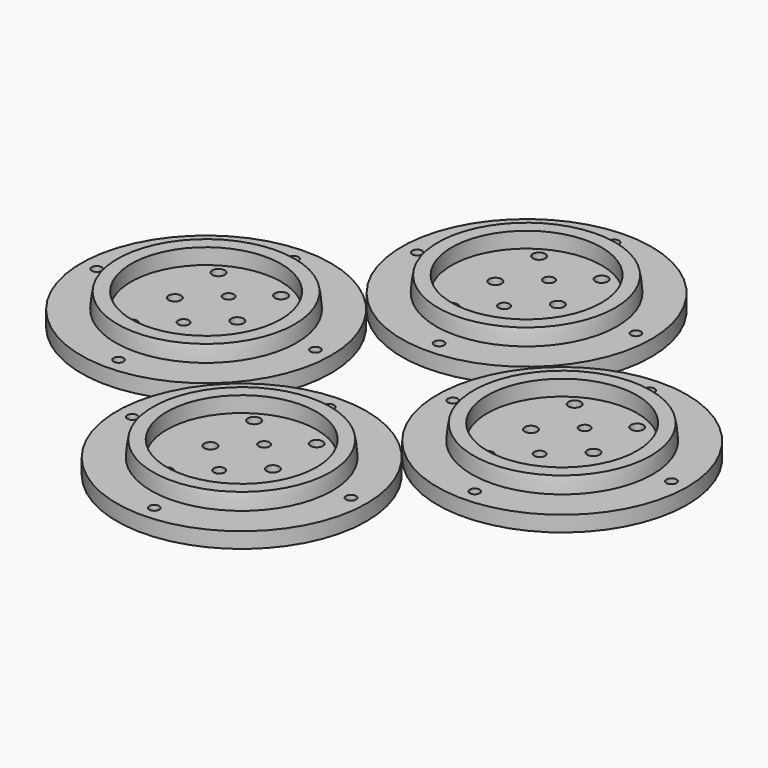
from build123d import *

# Parameters (mm, degrees)
CYLINDER061_R     = 1.6
CYLINDER061_DEPTH = 10
CYLINDER062_R     = 1.6
CYLINDER062_DEPTH = 10
CYLINDER063_R     = 1.6
CYLINDER063_DEPTH = 10
CYLINDER060_R     = 1.6
CYLINDER060_DEPTH = 10
CYLINDER057_R     = 2
CYLINDER057_DEPTH = 10
CYLINDER056_R     = 2
CYLINDER056_DEPTH = 10
CYLINDER059_R     = 1.75
CYLINDER059_DEPTH = 10
CYLINDER058_R     = 1.75
CYLINDER058_DEPTH = 10
CYLINDER050_R     = 2
CYLINDER050_DEPTH = 10
CYLINDER051_R     = 2
CYLINDER051_DEPTH = 10
CYLINDER052_R     = 2
CYLINDER052_DEPTH = 10
CYLINDER053_R     = 2
CYLINDER053_DEPTH = 10
CYLINDER055_R     = 24
CYLINDER055_DEPTH = 7
CYLINDER054_R     = 40
CYLINDER054_DEPTH = 5
CYLINDER075_R     = 1.6
CYLINDER075_DEPTH = 10
CYLINDER076_R     = 1.6
CYLINDER076_DEPTH = 10
CYLINDER077_R     = 1.6
CYLINDER077_DEPTH = 10
CYLINDER074_R     = 1.6
CYLINDER074_DEPTH = 10
CYLINDER071_R     = 2
CYLINDER071_DEPTH = 10
CYLINDER070_R     = 2
CYLINDER070_DEPTH = 10
CYLINDER073_R     = 1.75
CYLINDER073_DEPTH = 10
CYLINDER072_R     = 1.75
CYLINDER072_DEPTH = 10
CYLINDER064_R     = 2
CYLINDER064_DEPTH = 10
CYLINDER065_R     = 2
CYLINDER065_DEPTH = 10
CYLINDER066_R     = 2
CYLINDER066_DEPTH = 10
CYLINDER067_R     = 2
CYLINDER067_DEPTH = 10
CYLINDER069_R     = 24
CYLINDER069_DEPTH = 7
CYLINDER068_R     = 40
CYLINDER068_DEPTH = 5
CYLINDER089_R     = 1.6
CYLINDER089_DEPTH = 10
CYLINDER090_R     = 1.6
CYLINDER090_DEPTH = 10
CYLINDER091_R     = 1.6
CYLINDER091_DEPTH = 10
CYLINDER088_R     = 1.6
CYLINDER088_DEPTH = 10
CYLINDER085_R     = 2
CYLINDER085_DEPTH = 10
CYLINDER084_R     = 2
CYLINDER084_DEPTH = 10
CYLINDER087_R     = 1.75
CYLINDER087_DEPTH = 10
CYLINDER086_R     = 1.75
CYLINDER086_DEPTH = 10
CYLINDER078_R     = 2
CYLINDER078_DEPTH = 10
CYLINDER079_R     = 2
CYLINDER079_DEPTH = 10
CYLINDER080_R     = 2
CYLINDER080_DEPTH = 10
CYLINDER081_R     = 2
CYLINDER081_DEPTH = 10
CYLINDER083_R     = 24
CYLINDER083_DEPTH = 7
CYLINDER082_R     = 40
CYLINDER082_DEPTH = 5
CYLINDER047_R     = 1.6
CYLINDER047_DEPTH = 10
CYLINDER048_R     = 1.6
CYLINDER048_DEPTH = 10
CYLINDER049_R     = 1.6
CYLINDER049_DEPTH = 10
CYLINDER046_R     = 1.6
CYLINDER046_DEPTH = 10
CYLINDER043_R     = 2
CYLINDER043_DEPTH = 10
CYLINDER042_R     = 2
CYLINDER042_DEPTH = 10
CYLINDER045_R     = 1.75
CYLINDER045_DEPTH = 10
CYLINDER044_R     = 1.75
CYLINDER044_DEPTH = 10
CYLINDER036_R     = 2
CYLINDER036_DEPTH = 10
CYLINDER037_R     = 2
CYLINDER037_DEPTH = 10
CYLINDER038_R     = 2
CYLINDER038_DEPTH = 10
CYLINDER039_R     = 2
CYLINDER039_DEPTH = 10
CYLINDER041_R     = 24
CYLINDER041_DEPTH = 7
CYLINDER040_R     = 40
CYLINDER040_DEPTH = 5


with BuildPart() as obj1:
    # Cylinder061 → Cylinder061 (new body)
    with BuildSketch(Plane(origin=(40, 0, 65), x_dir=(1, 0, 0), z_dir=(0, 0, 1))):
        Circle(CYLINDER061_R)
    extrude(amount=CYLINDER061_DEPTH)


with BuildPart() as obj2:
    # Cylinder062 → Cylinder062 (new body)
    with BuildSketch(Plane(origin=(5, 35, 65), x_dir=(1, 0, 0), z_dir=(0, 0, 1))):
        Circle(CYLINDER062_R)
    extrude(amount=CYLINDER062_DEPTH)


with BuildPart() as obj3:
    # Cylinder063 → Cylinder063 (new body)
    with BuildSketch(Plane(origin=(5, -35, 65), x_dir=(1, 0, 0), z_dir=(0, 0, 1))):
        Circle(CYLINDER063_R)
    extrude(amount=CYLINDER063_DEPTH)


with BuildPart() as fusion029:
    # Cylinder060 → Cylinder060 (new body)
    with BuildSketch(Plane(origin=(-30, 0, 65), x_dir=(1, 0, 0), z_dir=(0, 0, 1))):
        Circle(CYLINDER060_R)
    extrude(amount=CYLINDER060_DEPTH)

    # Fusion029: union obj1, obj2, obj3
    add(obj1.part)
    add(obj2.part)
    add(obj3.part)


with BuildPart() as wirecut005:
    # Cylinder057 → Cylinder057 (new body)
    with BuildSketch(Plane(origin=(15, 0, 70), x_dir=(1, 0, 0), z_dir=(0, 0, 1))):
        Circle(CYLINDER057_R)
    extrude(amount=CYLINDER057_DEPTH)


with BuildPart() as wirecuts002:
    # Cylinder056 → Cylinder056 (new body)
    with BuildSketch(Plane(origin=(-5, 0, 70), x_dir=(1, 0, 0), z_dir=(0, 0, 1))):
        Circle(CYLINDER056_R)
    extrude(amount=CYLINDER056_DEPTH)

    # Fusion025: union wireCUt005
    add(wirecut005.part)


with BuildPart() as m3cuts005:
    # Cylinder059 → Cylinder059 (new body)
    with BuildSketch(Plane(origin=(5, 9, 70), x_dir=(1, 0, 0), z_dir=(0, 0, 1))):
        Circle(CYLINDER059_R)
    extrude(amount=CYLINDER059_DEPTH)


with BuildPart() as m3cute002:
    # Cylinder058 → Cylinder058 (new body)
    with BuildSketch(Plane(origin=(5, -9, 70), x_dir=(1, 0, 0), z_dir=(0, 0, 1))):
        Circle(CYLINDER058_R)
    extrude(amount=CYLINDER058_DEPTH)

    # Fusion026: union m3Cuts005
    add(m3cuts005.part)


with BuildPart() as cylinder050:
    # Cylinder050 → Cylinder050 (new body)
    with BuildSketch(Plane(origin=(0, -21, 0), x_dir=(1, 0, 0), z_dir=(0, 0, 1))):
        Circle(CYLINDER050_R)
    extrude(amount=CYLINDER050_DEPTH)


with BuildPart() as m3heatsetcuts006:
    # Cylinder051 → Cylinder051 (new body)
    with BuildSketch(Plane(origin=(20, -21, 0), x_dir=(1, 0, 0), z_dir=(0, 0, 1))):
        Circle(CYLINDER051_R)
    extrude(amount=CYLINDER051_DEPTH)

    # Fusion022: union Cylinder050
    add(cylinder050.part)


with BuildPart() as m3heatsetcuts006_1:
    # Fusion022 placement: moved
    add(m3heatsetcuts006.part.moved(Location((-5, 38.5, 70))))


with BuildPart() as cylinder052:
    # Cylinder052 → Cylinder052 (new body)
    with BuildSketch(Plane(origin=(0, -21, 0), x_dir=(1, 0, 0), z_dir=(0, 0, 1))):
        Circle(CYLINDER052_R)
    extrude(amount=CYLINDER052_DEPTH)


with BuildPart() as basecuts002:
    # Cylinder053 → Cylinder053 (new body)
    with BuildSketch(Plane(origin=(20, -21, 0), x_dir=(1, 0, 0), z_dir=(0, 0, 1))):
        Circle(CYLINDER053_R)
    extrude(amount=CYLINDER053_DEPTH)

    # Fusion023: union Cylinder052
    add(cylinder052.part)


with BuildPart() as basecuts002_1:
    # Fusion023 placement: moved
    add(basecuts002.part.moved(Location((-5, 3.5, 70))))

    # Fusion024: union m3HeatSetCuts006
    add(m3heatsetcuts006_1.part)

    # Fusion027: union wireCuts002, m3Cute002
    add(wirecuts002.part)
    add(m3cute002.part)


with BuildPart() as basecut002:
    # Cylinder055 → Cylinder055 (new body)
    with BuildSketch(Plane(origin=(5, 0, 74), x_dir=(1, 0, 0), z_dir=(0, 0, 1))):
        Circle(CYLINDER055_R)
    extrude(amount=CYLINDER055_DEPTH)


with BuildPart() as cut009:
    # Sphere003 → Sphere003 (revolve)
    with BuildSketch(Plane(origin=(5, 0, 74), x_dir=(1, 0, 0), z_dir=(0, -1, 0))):
        with BuildLine():
            ThreePointArc((29, 0), (28.841135, 3.031325), (28.36628, 6.029439))
            Line((28.36628, 6.029439), (0, 6.029439))
            Line((0, 6.029439), (0, 0))
            Line((0, 0), (29, 0))
        make_face()
    revolve(axis=Axis((5, 0, 74), (0, 0, 1)))

    # Cut009: cut baseCut002
    add(basecut002.part, mode=Mode.SUBTRACT)


with BuildPart() as lightmodule002:
    # Cylinder054 → Cylinder054 (new body)
    with BuildSketch(Plane(origin=(5, 0, 70), x_dir=(1, 0, 0), z_dir=(0, 0, 1))):
        Circle(CYLINDER054_R)
    extrude(amount=CYLINDER054_DEPTH)

    # Fusion028: union Cut009
    add(cut009.part)

    # Cut010: cut baseCUts002
    add(basecuts002_1.part, mode=Mode.SUBTRACT)

    # Cut011: cut Fusion029
    add(fusion029.part, mode=Mode.SUBTRACT)


with BuildPart() as lightmodule002_1:
    # Cut011 placement: moved
    add(lightmodule002.part.moved(Location((-62, -150, 0))))


with BuildPart() as obj4:
    # Cylinder075 → Cylinder075 (new body)
    with BuildSketch(Plane(origin=(40, 0, 65), x_dir=(1, 0, 0), z_dir=(0, 0, 1))):
        Circle(CYLINDER075_R)
    extrude(amount=CYLINDER075_DEPTH)


with BuildPart() as obj5:
    # Cylinder076 → Cylinder076 (new body)
    with BuildSketch(Plane(origin=(5, 35, 65), x_dir=(1, 0, 0), z_dir=(0, 0, 1))):
        Circle(CYLINDER076_R)
    extrude(amount=CYLINDER076_DEPTH)


with BuildPart() as obj6:
    # Cylinder077 → Cylinder077 (new body)
    with BuildSketch(Plane(origin=(5, -35, 65), x_dir=(1, 0, 0), z_dir=(0, 0, 1))):
        Circle(CYLINDER077_R)
    extrude(amount=CYLINDER077_DEPTH)


with BuildPart() as fusion037:
    # Cylinder074 → Cylinder074 (new body)
    with BuildSketch(Plane(origin=(-30, 0, 65), x_dir=(1, 0, 0), z_dir=(0, 0, 1))):
        Circle(CYLINDER074_R)
    extrude(amount=CYLINDER074_DEPTH)

    # Fusion037: union obj4, obj5, obj6
    add(obj4.part)
    add(obj5.part)
    add(obj6.part)


with BuildPart() as wirecut007:
    # Cylinder071 → Cylinder071 (new body)
    with BuildSketch(Plane(origin=(15, 0, 70), x_dir=(1, 0, 0), z_dir=(0, 0, 1))):
        Circle(CYLINDER071_R)
    extrude(amount=CYLINDER071_DEPTH)


with BuildPart() as wirecuts003:
    # Cylinder070 → Cylinder070 (new body)
    with BuildSketch(Plane(origin=(-5, 0, 70), x_dir=(1, 0, 0), z_dir=(0, 0, 1))):
        Circle(CYLINDER070_R)
    extrude(amount=CYLINDER070_DEPTH)

    # Fusion033: union wireCUt007
    add(wirecut007.part)


with BuildPart() as m3cuts007:
    # Cylinder073 → Cylinder073 (new body)
    with BuildSketch(Plane(origin=(5, 9, 70), x_dir=(1, 0, 0), z_dir=(0, 0, 1))):
        Circle(CYLINDER073_R)
    extrude(amount=CYLINDER073_DEPTH)


with BuildPart() as m3cute003:
    # Cylinder072 → Cylinder072 (new body)
    with BuildSketch(Plane(origin=(5, -9, 70), x_dir=(1, 0, 0), z_dir=(0, 0, 1))):
        Circle(CYLINDER072_R)
    extrude(amount=CYLINDER072_DEPTH)

    # Fusion034: union m3Cuts007
    add(m3cuts007.part)


with BuildPart() as cylinder064:
    # Cylinder064 → Cylinder064 (new body)
    with BuildSketch(Plane(origin=(0, -21, 0), x_dir=(1, 0, 0), z_dir=(0, 0, 1))):
        Circle(CYLINDER064_R)
    extrude(amount=CYLINDER064_DEPTH)


with BuildPart() as m3heatsetcuts009:
    # Cylinder065 → Cylinder065 (new body)
    with BuildSketch(Plane(origin=(20, -21, 0), x_dir=(1, 0, 0), z_dir=(0, 0, 1))):
        Circle(CYLINDER065_R)
    extrude(amount=CYLINDER065_DEPTH)

    # Fusion030: union Cylinder064
    add(cylinder064.part)


with BuildPart() as m3heatsetcuts009_1:
    # Fusion030 placement: moved
    add(m3heatsetcuts009.part.moved(Location((-5, 38.5, 70))))


with BuildPart() as cylinder066:
    # Cylinder066 → Cylinder066 (new body)
    with BuildSketch(Plane(origin=(0, -21, 0), x_dir=(1, 0, 0), z_dir=(0, 0, 1))):
        Circle(CYLINDER066_R)
    extrude(amount=CYLINDER066_DEPTH)


with BuildPart() as basecuts003:
    # Cylinder067 → Cylinder067 (new body)
    with BuildSketch(Plane(origin=(20, -21, 0), x_dir=(1, 0, 0), z_dir=(0, 0, 1))):
        Circle(CYLINDER067_R)
    extrude(amount=CYLINDER067_DEPTH)

    # Fusion031: union Cylinder066
    add(cylinder066.part)


with BuildPart() as basecuts003_1:
    # Fusion031 placement: moved
    add(basecuts003.part.moved(Location((-5, 3.5, 70))))

    # Fusion032: union m3HeatSetCuts009
    add(m3heatsetcuts009_1.part)

    # Fusion035: union wireCuts003, m3Cute003
    add(wirecuts003.part)
    add(m3cute003.part)


with BuildPart() as basecut003:
    # Cylinder069 → Cylinder069 (new body)
    with BuildSketch(Plane(origin=(5, 0, 74), x_dir=(1, 0, 0), z_dir=(0, 0, 1))):
        Circle(CYLINDER069_R)
    extrude(amount=CYLINDER069_DEPTH)


with BuildPart() as cut012:
    # Sphere004 → Sphere004 (revolve)
    with BuildSketch(Plane(origin=(5, 0, 74), x_dir=(1, 0, 0), z_dir=(0, -1, 0))):
        with BuildLine():
            ThreePointArc((29, 0), (28.841135, 3.031325), (28.36628, 6.029439))
            Line((28.36628, 6.029439), (0, 6.029439))
            Line((0, 6.029439), (0, 0))
            Line((0, 0), (29, 0))
        make_face()
    revolve(axis=Axis((5, 0, 74), (0, 0, 1)))

    # Cut012: cut baseCut003
    add(basecut003.part, mode=Mode.SUBTRACT)


with BuildPart() as lightmodule003:
    # Cylinder068 → Cylinder068 (new body)
    with BuildSketch(Plane(origin=(5, 0, 70), x_dir=(1, 0, 0), z_dir=(0, 0, 1))):
        Circle(CYLINDER068_R)
    extrude(amount=CYLINDER068_DEPTH)

    # Fusion036: union Cut012
    add(cut012.part)

    # Cut013: cut baseCUts003
    add(basecuts003_1.part, mode=Mode.SUBTRACT)

    # Cut014: cut Fusion037
    add(fusion037.part, mode=Mode.SUBTRACT)


with BuildPart() as lightmodule003_1:
    # Cut014 placement: moved
    add(lightmodule003.part.moved(Location((52, -150, 0))))


with BuildPart() as obj7:
    # Cylinder089 → Cylinder089 (new body)
    with BuildSketch(Plane(origin=(40, 0, 65), x_dir=(1, 0, 0), z_dir=(0, 0, 1))):
        Circle(CYLINDER089_R)
    extrude(amount=CYLINDER089_DEPTH)


with BuildPart() as obj8:
    # Cylinder090 → Cylinder090 (new body)
    with BuildSketch(Plane(origin=(5, 35, 65), x_dir=(1, 0, 0), z_dir=(0, 0, 1))):
        Circle(CYLINDER090_R)
    extrude(amount=CYLINDER090_DEPTH)


with BuildPart() as obj9:
    # Cylinder091 → Cylinder091 (new body)
    with BuildSketch(Plane(origin=(5, -35, 65), x_dir=(1, 0, 0), z_dir=(0, 0, 1))):
        Circle(CYLINDER091_R)
    extrude(amount=CYLINDER091_DEPTH)


with BuildPart() as fusion045:
    # Cylinder088 → Cylinder088 (new body)
    with BuildSketch(Plane(origin=(-30, 0, 65), x_dir=(1, 0, 0), z_dir=(0, 0, 1))):
        Circle(CYLINDER088_R)
    extrude(amount=CYLINDER088_DEPTH)

    # Fusion045: union obj7, obj8, obj9
    add(obj7.part)
    add(obj8.part)
    add(obj9.part)


with BuildPart() as wirecut009:
    # Cylinder085 → Cylinder085 (new body)
    with BuildSketch(Plane(origin=(15, 0, 70), x_dir=(1, 0, 0), z_dir=(0, 0, 1))):
        Circle(CYLINDER085_R)
    extrude(amount=CYLINDER085_DEPTH)


with BuildPart() as wirecuts004:
    # Cylinder084 → Cylinder084 (new body)
    with BuildSketch(Plane(origin=(-5, 0, 70), x_dir=(1, 0, 0), z_dir=(0, 0, 1))):
        Circle(CYLINDER084_R)
    extrude(amount=CYLINDER084_DEPTH)

    # Fusion041: union wireCUt009
    add(wirecut009.part)


with BuildPart() as m3cuts009:
    # Cylinder087 → Cylinder087 (new body)
    with BuildSketch(Plane(origin=(5, 9, 70), x_dir=(1, 0, 0), z_dir=(0, 0, 1))):
        Circle(CYLINDER087_R)
    extrude(amount=CYLINDER087_DEPTH)


with BuildPart() as m3cute004:
    # Cylinder086 → Cylinder086 (new body)
    with BuildSketch(Plane(origin=(5, -9, 70), x_dir=(1, 0, 0), z_dir=(0, 0, 1))):
        Circle(CYLINDER086_R)
    extrude(amount=CYLINDER086_DEPTH)

    # Fusion042: union m3Cuts009
    add(m3cuts009.part)


with BuildPart() as cylinder078:
    # Cylinder078 → Cylinder078 (new body)
    with BuildSketch(Plane(origin=(0, -21, 0), x_dir=(1, 0, 0), z_dir=(0, 0, 1))):
        Circle(CYLINDER078_R)
    extrude(amount=CYLINDER078_DEPTH)


with BuildPart() as m3heatsetcuts012:
    # Cylinder079 → Cylinder079 (new body)
    with BuildSketch(Plane(origin=(20, -21, 0), x_dir=(1, 0, 0), z_dir=(0, 0, 1))):
        Circle(CYLINDER079_R)
    extrude(amount=CYLINDER079_DEPTH)

    # Fusion038: union Cylinder078
    add(cylinder078.part)


with BuildPart() as m3heatsetcuts012_1:
    # Fusion038 placement: moved
    add(m3heatsetcuts012.part.moved(Location((-5, 38.5, 70))))


with BuildPart() as cylinder080:
    # Cylinder080 → Cylinder080 (new body)
    with BuildSketch(Plane(origin=(0, -21, 0), x_dir=(1, 0, 0), z_dir=(0, 0, 1))):
        Circle(CYLINDER080_R)
    extrude(amount=CYLINDER080_DEPTH)


with BuildPart() as basecuts004:
    # Cylinder081 → Cylinder081 (new body)
    with BuildSketch(Plane(origin=(20, -21, 0), x_dir=(1, 0, 0), z_dir=(0, 0, 1))):
        Circle(CYLINDER081_R)
    extrude(amount=CYLINDER081_DEPTH)

    # Fusion039: union Cylinder080
    add(cylinder080.part)


with BuildPart() as basecuts004_1:
    # Fusion039 placement: moved
    add(basecuts004.part.moved(Location((-5, 3.5, 70))))

    # Fusion040: union m3HeatSetCuts012
    add(m3heatsetcuts012_1.part)

    # Fusion043: union wireCuts004, m3Cute004
    add(wirecuts004.part)
    add(m3cute004.part)


with BuildPart() as basecut004:
    # Cylinder083 → Cylinder083 (new body)
    with BuildSketch(Plane(origin=(5, 0, 74), x_dir=(1, 0, 0), z_dir=(0, 0, 1))):
        Circle(CYLINDER083_R)
    extrude(amount=CYLINDER083_DEPTH)


with BuildPart() as cut015:
    # Sphere005 → Sphere005 (revolve)
    with BuildSketch(Plane(origin=(5, 0, 74), x_dir=(1, 0, 0), z_dir=(0, -1, 0))):
        with BuildLine():
            ThreePointArc((29, 0), (28.841135, 3.031325), (28.36628, 6.029439))
            Line((28.36628, 6.029439), (0, 6.029439))
            Line((0, 6.029439), (0, 0))
            Line((0, 0), (29, 0))
        make_face()
    revolve(axis=Axis((5, 0, 74), (0, 0, 1)))

    # Cut015: cut baseCut004
    add(basecut004.part, mode=Mode.SUBTRACT)


with BuildPart() as lightmodule004:
    # Cylinder082 → Cylinder082 (new body)
    with BuildSketch(Plane(origin=(5, 0, 70), x_dir=(1, 0, 0), z_dir=(0, 0, 1))):
        Circle(CYLINDER082_R)
    extrude(amount=CYLINDER082_DEPTH)

    # Fusion044: union Cut015
    add(cut015.part)

    # Cut016: cut baseCUts004
    add(basecuts004_1.part, mode=Mode.SUBTRACT)

    # Cut017: cut Fusion045
    add(fusion045.part, mode=Mode.SUBTRACT)


with BuildPart() as lightmodule004_1:
    # Cut017 placement: moved
    add(lightmodule004.part.moved(Location((-5, -93, 0))))


with BuildPart() as obj10:
    # Cylinder047 → Cylinder047 (new body)
    with BuildSketch(Plane(origin=(40, 0, 65), x_dir=(1, 0, 0), z_dir=(0, 0, 1))):
        Circle(CYLINDER047_R)
    extrude(amount=CYLINDER047_DEPTH)


with BuildPart() as obj11:
    # Cylinder048 → Cylinder048 (new body)
    with BuildSketch(Plane(origin=(5, 35, 65), x_dir=(1, 0, 0), z_dir=(0, 0, 1))):
        Circle(CYLINDER048_R)
    extrude(amount=CYLINDER048_DEPTH)


with BuildPart() as obj12:
    # Cylinder049 → Cylinder049 (new body)
    with BuildSketch(Plane(origin=(5, -35, 65), x_dir=(1, 0, 0), z_dir=(0, 0, 1))):
        Circle(CYLINDER049_R)
    extrude(amount=CYLINDER049_DEPTH)


with BuildPart() as fusion021:
    # Cylinder046 → Cylinder046 (new body)
    with BuildSketch(Plane(origin=(-30, 0, 65), x_dir=(1, 0, 0), z_dir=(0, 0, 1))):
        Circle(CYLINDER046_R)
    extrude(amount=CYLINDER046_DEPTH)

    # Fusion021: union obj10, obj11, obj12
    add(obj10.part)
    add(obj11.part)
    add(obj12.part)


with BuildPart() as wirecut003:
    # Cylinder043 → Cylinder043 (new body)
    with BuildSketch(Plane(origin=(15, 0, 70), x_dir=(1, 0, 0), z_dir=(0, 0, 1))):
        Circle(CYLINDER043_R)
    extrude(amount=CYLINDER043_DEPTH)


with BuildPart() as wirecuts001:
    # Cylinder042 → Cylinder042 (new body)
    with BuildSketch(Plane(origin=(-5, 0, 70), x_dir=(1, 0, 0), z_dir=(0, 0, 1))):
        Circle(CYLINDER042_R)
    extrude(amount=CYLINDER042_DEPTH)

    # Fusion017: union wireCUt003
    add(wirecut003.part)


with BuildPart() as m3cuts003:
    # Cylinder045 → Cylinder045 (new body)
    with BuildSketch(Plane(origin=(5, 9, 70), x_dir=(1, 0, 0), z_dir=(0, 0, 1))):
        Circle(CYLINDER045_R)
    extrude(amount=CYLINDER045_DEPTH)


with BuildPart() as m3cute001:
    # Cylinder044 → Cylinder044 (new body)
    with BuildSketch(Plane(origin=(5, -9, 70), x_dir=(1, 0, 0), z_dir=(0, 0, 1))):
        Circle(CYLINDER044_R)
    extrude(amount=CYLINDER044_DEPTH)

    # Fusion018: union m3Cuts003
    add(m3cuts003.part)


with BuildPart() as cylinder036:
    # Cylinder036 → Cylinder036 (new body)
    with BuildSketch(Plane(origin=(0, -21, 0), x_dir=(1, 0, 0), z_dir=(0, 0, 1))):
        Circle(CYLINDER036_R)
    extrude(amount=CYLINDER036_DEPTH)


with BuildPart() as m3heatsetcuts003:
    # Cylinder037 → Cylinder037 (new body)
    with BuildSketch(Plane(origin=(20, -21, 0), x_dir=(1, 0, 0), z_dir=(0, 0, 1))):
        Circle(CYLINDER037_R)
    extrude(amount=CYLINDER037_DEPTH)

    # Fusion014: union Cylinder036
    add(cylinder036.part)


with BuildPart() as m3heatsetcuts003_1:
    # Fusion014 placement: moved
    add(m3heatsetcuts003.part.moved(Location((-5, 38.5, 70))))


with BuildPart() as cylinder038:
    # Cylinder038 → Cylinder038 (new body)
    with BuildSketch(Plane(origin=(0, -21, 0), x_dir=(1, 0, 0), z_dir=(0, 0, 1))):
        Circle(CYLINDER038_R)
    extrude(amount=CYLINDER038_DEPTH)


with BuildPart() as basecuts001:
    # Cylinder039 → Cylinder039 (new body)
    with BuildSketch(Plane(origin=(20, -21, 0), x_dir=(1, 0, 0), z_dir=(0, 0, 1))):
        Circle(CYLINDER039_R)
    extrude(amount=CYLINDER039_DEPTH)

    # Fusion015: union Cylinder038
    add(cylinder038.part)


with BuildPart() as basecuts001_1:
    # Fusion015 placement: moved
    add(basecuts001.part.moved(Location((-5, 3.5, 70))))

    # Fusion016: union m3HeatSetCuts003
    add(m3heatsetcuts003_1.part)

    # Fusion019: union wireCuts001, m3Cute001
    add(wirecuts001.part)
    add(m3cute001.part)


with BuildPart() as basecut001:
    # Cylinder041 → Cylinder041 (new body)
    with BuildSketch(Plane(origin=(5, 0, 74), x_dir=(1, 0, 0), z_dir=(0, 0, 1))):
        Circle(CYLINDER041_R)
    extrude(amount=CYLINDER041_DEPTH)


with BuildPart() as cut006:
    # Sphere002 → Sphere002 (revolve)
    with BuildSketch(Plane(origin=(5, 0, 74), x_dir=(1, 0, 0), z_dir=(0, -1, 0))):
        with BuildLine():
            ThreePointArc((29, 0), (28.841135, 3.031325), (28.36628, 6.029439))
            Line((28.36628, 6.029439), (0, 6.029439))
            Line((0, 6.029439), (0, 0))
            Line((0, 0), (29, 0))
        make_face()
    revolve(axis=Axis((5, 0, 74), (0, 0, 1)))

    # Cut006: cut baseCut001
    add(basecut001.part, mode=Mode.SUBTRACT)


with BuildPart() as lightmodules:
    # Cylinder040 → Cylinder040 (new body)
    with BuildSketch(Plane(origin=(5, 0, 70), x_dir=(1, 0, 0), z_dir=(0, 0, 1))):
        Circle(CYLINDER040_R)
    extrude(amount=CYLINDER040_DEPTH)

    # Fusion020: union Cut006
    add(cut006.part)

    # Cut007: cut baseCUts001
    add(basecuts001_1.part, mode=Mode.SUBTRACT)

    # Cut008: cut Fusion021
    add(fusion021.part, mode=Mode.SUBTRACT)


with BuildPart() as lightmodules_1:
    # Cut008 placement: moved
    add(lightmodules.part.moved(Location((-5, -207, 0))))

    # Fusion: union lightModule002, lightModule003, lightModule004
    add(lightmodule002_1.part)
    add(lightmodule003_1.part)
    add(lightmodule004_1.part)


with BuildPart() as lightmodules_2:
    # Fusion placement: moved
    add(lightmodules_1.part.moved(Location((0, 0, 30))))


solid = lightmodules_2.part
